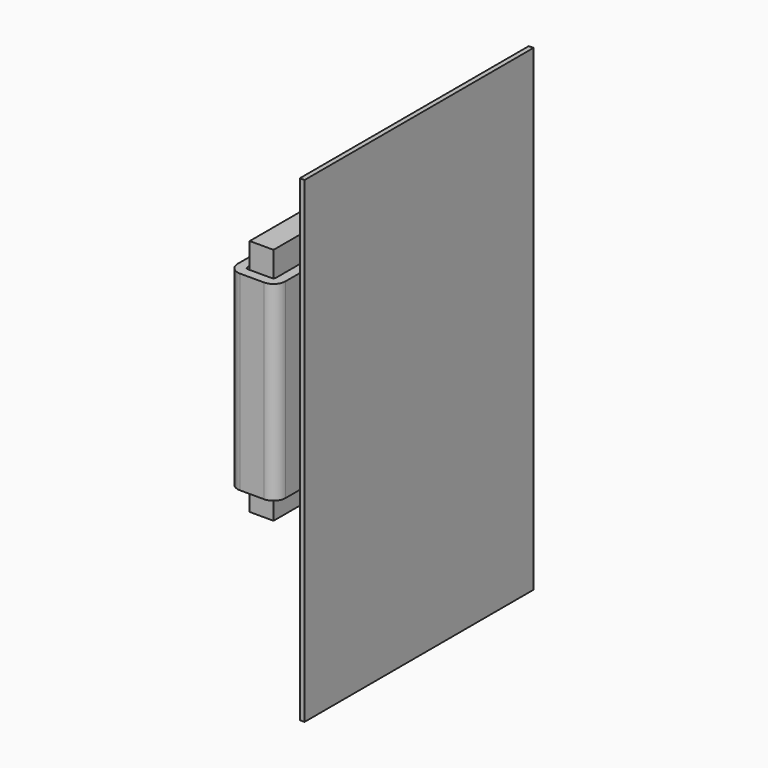
from build123d import *

# Parameters (mm, degrees)
BOX_W        = 5
BOX_H        = 30
BOX_DEPTH    = 50
PAD_DEPTH    = 40
POCKET_DEPTH = 40
BOX001_W     = 1
BOX001_H     = 60
BOX001_DEPTH = 100


with BuildPart() as core:
    # Box → Box (join)
    with BuildSketch(Plane.XY):
        with Locations((2.5, 15)):
            Rectangle(BOX_W, BOX_H)
    extrude(amount=BOX_DEPTH)


with BuildPart() as core_1:
    # Body placement: moved
    add(core.part.moved(Location((-2.5, -15, -25))))


with BuildPart() as coil:
    # Sketch → Pad (new body)
    with BuildSketch(Plane.XY.offset(-20)):
        with BuildLine():
            ThreePointArc((5, 15), (4.267767, 16.767767), (2.5, 17.5))
            Line((-2.5, 17.5), (2.5, 17.5))
            ThreePointArc((-2.5, 17.5), (-4.267767, 16.767767), (-5, 15))
            Line((-5, -15), (-5, 15))
            ThreePointArc((-5, -15), (-4.267767, -16.767767), (-2.5, -17.5))
            Line((2.5, -17.5), (-2.5, -17.5))
            ThreePointArc((2.5, -17.5), (4.267767, -16.767767), (5, -15))
            Line((5, 15), (5, -15))
        make_face()
    extrude(amount=PAD_DEPTH)

    # Sketch001 (on Face9 of Pad) → Pocket (cut)
    with BuildSketch(Plane(origin=(0, 0, -20), x_dir=(1, 0, 0), z_dir=(0, 0, -1))):
        with BuildLine():
            ThreePointArc((-2.5, 15.5), (-2.853553, 15.353553), (-3, 15))
            Line((-3, -15), (-3, 15))
            ThreePointArc((-3, -15), (-2.853553, -15.353553), (-2.5, -15.5))
            Line((2.5, -15.5), (-2.5, -15.5))
            ThreePointArc((2.5, -15.5), (2.853553, -15.353553), (3, -15))
            Line((3, 15), (3, -15))
            ThreePointArc((3, 15), (2.853553, 15.353553), (2.5, 15.5))
            Line((-2.5, 15.5), (2.5, 15.5))
        make_face()
    extrude(amount=-POCKET_DEPTH, mode=Mode.SUBTRACT)


with BuildPart() as metal_plate:
    # Box001 → Box001 (join)
    with BuildSketch(Plane.XY):
        with Locations((0.5, 30)):
            Rectangle(BOX001_W, BOX001_H)
    extrude(amount=BOX001_DEPTH)


with BuildPart() as metal_plate_1:
    # Body002 placement: moved
    add(metal_plate.part.moved(Location((20, -30, -50))))


solid = Compound([core_1.part, coil.part, metal_plate_1.part])
